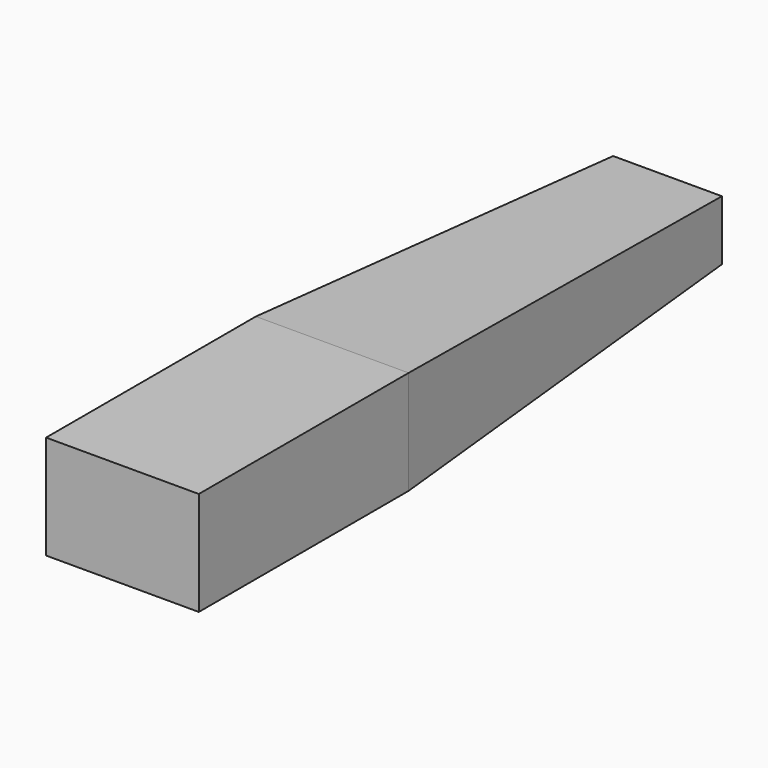
from build123d import *

# Parameters (mm, degrees)
F0_W      = 37.3514983803
F0_H      = 64.1258209944
F1_DEPTH  = 25.4
F1_FACE_W = 37.3514983803
F1_FACE_H = 25.4
F2_DEPTH  = 102.4980768561
F2_TAPER  = 3


with BuildPart() as f1:
    # F0 (on Top) → F1 (new body)
    with BuildSketch(Plane.XY):
        with Locations((19.637032412, -10.2205276489)):
            Rectangle(F0_W, F0_H)
    extrude(amount=F1_DEPTH)

    # F1_face (on face) → F2 (join)
    with BuildSketch(Plane(origin=(19.637032412, 21.8423828483, 12.7), x_dir=(-1, 0, 0), z_dir=(0, 1, 0))):
        Rectangle(F1_FACE_W, F1_FACE_H)
    extrude(amount=F2_DEPTH, taper=F2_TAPER)


solid = f1.part
